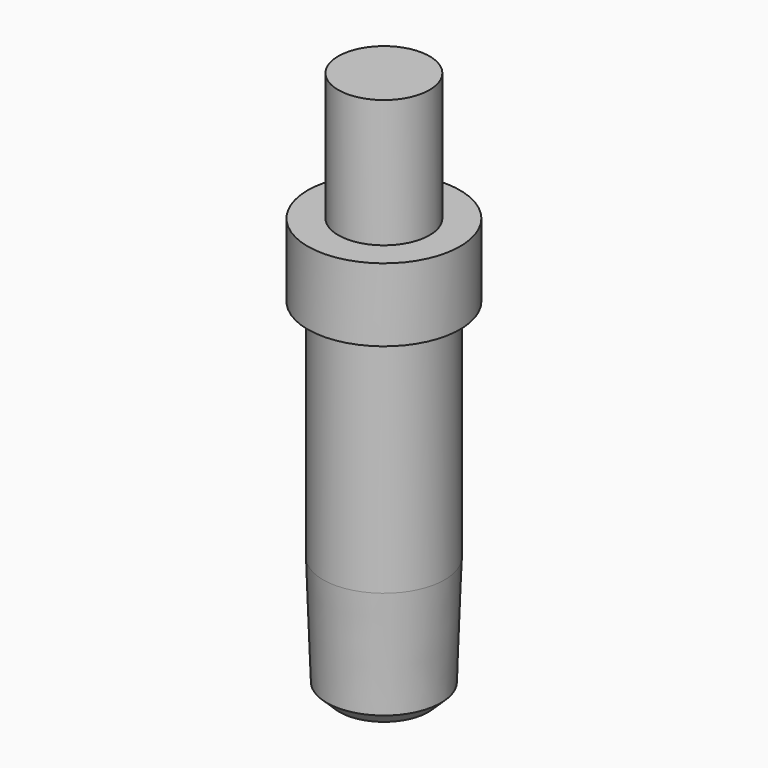
from build123d import *

# Parameters (mm, degrees)
F0_W    = 0.75
F0_H    = 2.1
F0_W_2  = 1
F0_H_2  = 3.7
F2_SIZE = 0.2


with BuildPart() as f1:
    # F0 (on Front) → F1 (revolve)
    with BuildSketch(Plane.XZ):
        with Locations((-0.375, 2.25)):
            Rectangle(F0_W, F0_H)
        Polygon((-1.25, 1.2), (-1.25, 0), (-1, 0), (0, 0), (0, 1.2), (-0.75, 1.2), align=None)
        with Locations((-0.5, -1.85)):
            Rectangle(F0_W_2, F0_H_2)
        Polygon((0, -3.7), (-1, -3.7), (-0.930158, -5.7), (0, -5.7), align=None)
    revolve(axis=Axis((0, 0, -1.2), (0, 0, -1)))

    # F2
    f2_edges = [f1.edges().sort_by_distance(p)[0] for p in [
        (0.930158, 0, -5.7),
    ]]
    chamfer(f2_edges, length=F2_SIZE)


solid = f1.part
